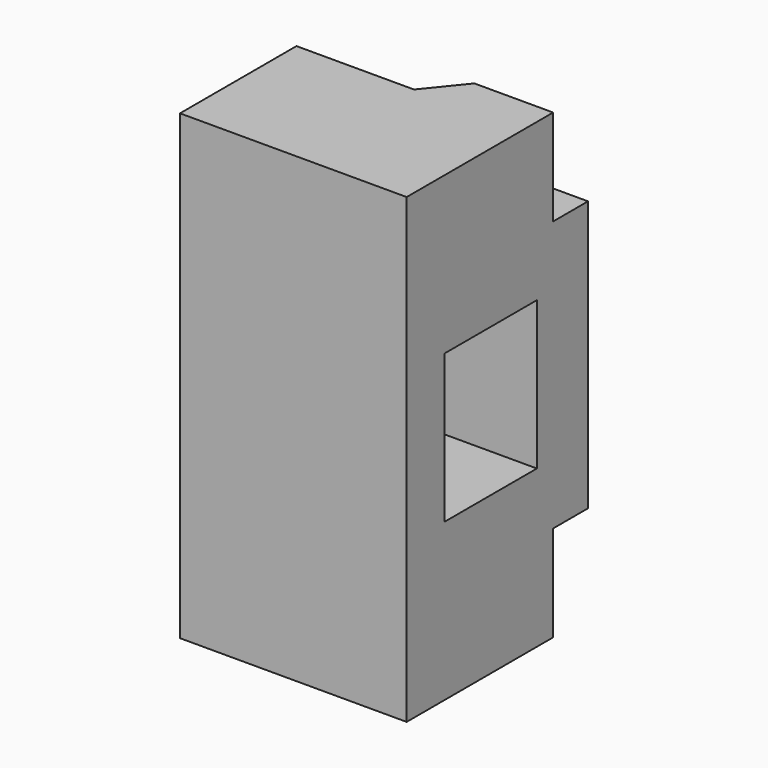
from build123d import *

# Parameters (mm, degrees)
PAD_DEPTH       = 26.5
PAD_DEPTH_BACK  = 26.5
SKETCH001_W     = 5
SKETCH001_H     = 11
POCKET_DEPTH    = 155.012627
SKETCH002_W     = 16.7
SKETCH002_H     = 7
PAD001_DEPTH    = 26
SKETCH004_W     = 13.225
SKETCH004_H     = 17
POCKET001_DEPTH = 26.001


with BuildPart() as part:
    # Sketch → Pad (new body, two sides)
    with BuildSketch(Plane.XY) as pad_sk:
        Polygon((-26, 0), (0, 0), (0, 26), (-5, 26), align=None)
    extrude(amount=PAD_DEPTH)
    extrude(pad_sk.sketch, amount=-PAD_DEPTH_BACK)

    # Sketch001 (on Face2 of Pad) → Pocket (cut, through all)
    with BuildSketch(Plane.YZ):
        with Locations((23.5, 21)):
            Rectangle(SKETCH001_W, SKETCH001_H)
    pocket = extrude(amount=-POCKET_DEPTH, mode=Mode.SUBTRACT)

    # Mirrored: Pocket across Sketch001 H_Axis
    add(pocket.mirror(Plane.XY), mode=Mode.SUBTRACT)

    # Sketch002 (on Face3 of Mirrored) → Pad001 (join)
    with BuildSketch(Plane.YZ):
        with Locations((8.35, 23)):
            Rectangle(SKETCH002_W, SKETCH002_H)
    pad001 = extrude(amount=-PAD001_DEPTH)

    # Mirrored001: Pad001 across Sketch002 H_Axis
    add(pad001.mirror(Plane.XY))

    # Sketch004 (on Face2 of Mirrored001) → Pocket001 (cut, through all)
    with BuildSketch(Plane.YZ):
        with Locations((12.058088, 0)):
            Rectangle(SKETCH004_W, SKETCH004_H)
    extrude(amount=-POCKET001_DEPTH, mode=Mode.SUBTRACT)


solid = part.part
